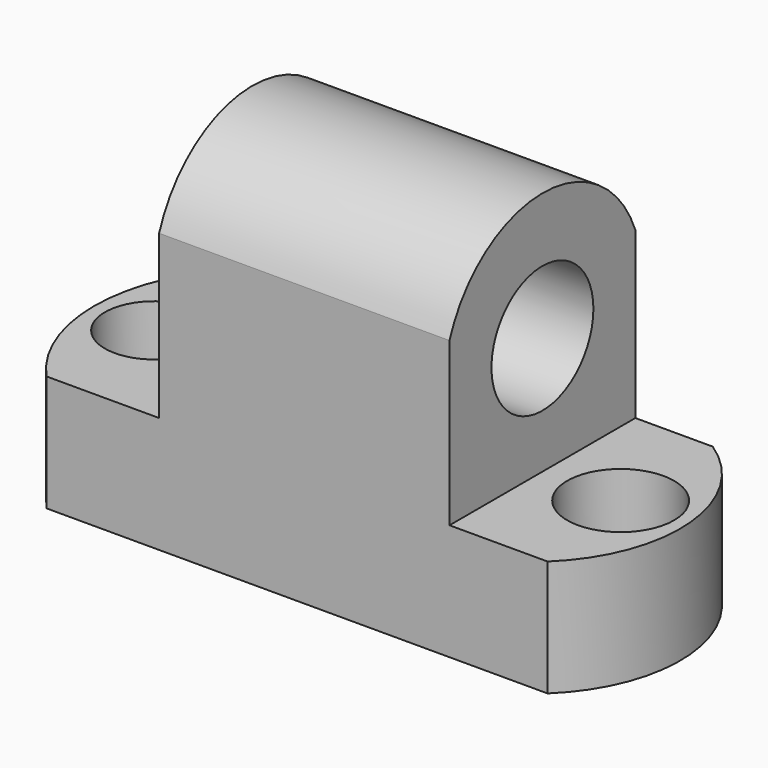
from build123d import *

# Parameters (mm, degrees)
F1_DEPTH  = 25.4
F2_R      = 6.964249989
F3_DEPTH  = 31.75
F4_R      = 5.3902000798
F5_DEPTH  = 12.7
F6_R      = 5.8449861695
F7_DEPTH  = 12.7
F9_DEPTH  = 25.4
F11_DEPTH = 25.4
F13_DEPTH = 38.1


with BuildPart() as f1:
    # F0 (on Front) → F1 (new body)
    with BuildSketch(Plane.XZ):
        Polygon((-67.6313243027, 0), (0, 0), (0, 12.7), (-16.9078324569, 12.7), (-16.9078324569, 40.5481918725), (-48.6578324569, 40.5481918725), (-48.6578324569, 12.7), (-67.6313243027, 12.7), align=None)
    extrude(amount=F1_DEPTH)

    # F2 (on face) → F3 (cut)
    with BuildSketch(Plane.YZ.offset(-16.9078324569)):
        with Locations((-12.7, 25.5351066589)):
            Circle(F2_R)
    extrude(amount=-F3_DEPTH, mode=Mode.SUBTRACT)

    # F4 (on face) → F5 (cut)
    with BuildSketch(Plane.XY.offset(12.7)):
        with Locations((-59.1080682221, -13.0062611195)):
            Circle(F4_R)
    extrude(amount=-F5_DEPTH, mode=Mode.SUBTRACT)

    # F6 (on face) → F7 (cut)
    with BuildSketch(Plane.XY.offset(12.7)):
        with Locations((-8.3569446579, -12.7)):
            Circle(F6_R)
    extrude(amount=-F7_DEPTH, mode=Mode.SUBTRACT)

    # F8 (on face) → F9 (cut)
    with BuildSketch(Plane.XY.offset(12.7)):
        with BuildLine():
            ThreePointArc((-8.4539162285, 0), (-1.19277981, -12.1537675148), (-6.1903283931, -25.4))
            Line((-6.1903283931, -25.4), (0, -25.4))
            Line((0, -25.4), (0, 0))
            Line((0, 0), (-8.4539162285, 0))
        make_face()
    extrude(amount=-F9_DEPTH, mode=Mode.SUBTRACT)

    # F10 (on face) → F11 (cut)
    with BuildSketch(Plane.XY.offset(12.7)):
        with BuildLine():
            ThreePointArc((-60.9747394919, -25.4), (-65.9330031069, -12.7), (-60.9747394919, 0))
            Line((-60.9747394919, 0), (-67.6313243027, 0))
            Line((-67.6313243027, 0), (-67.6313243027, -25.4))
            Line((-67.6313243027, -25.4), (-60.9747394919, -25.4))
        make_face()
    extrude(amount=-F11_DEPTH, mode=Mode.SUBTRACT)

    # F12 (on face) → F13 (cut)
    with BuildSketch(Plane(origin=(-48.6578324569, 0, 0), x_dir=(0, -1, 0), z_dir=(-1, 0, 0))):
        with BuildLine():
            ThreePointArc((0, 30.7968873531), (12.8080026983, 39.50517373), (25.4, 30.487369746))
            Line((25.4, 30.487369746), (25.4, 40.5481918725))
            Line((25.4, 40.5481918725), (0, 40.5481918725))
            Line((0, 40.5481918725), (0, 30.7968873531))
        make_face()
    extrude(amount=-F13_DEPTH, mode=Mode.SUBTRACT)


solid = f1.part
